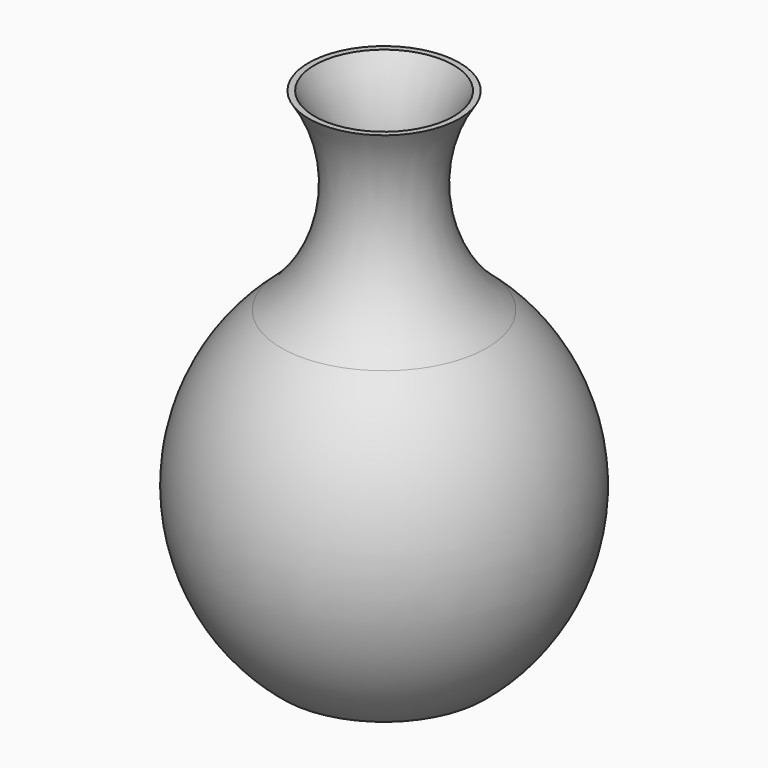
from build123d import *

# Parameters (mm, degrees)
F2_T = -2.54


with BuildPart() as f1:
    # F0 (on Front) → F1 (revolve)
    with BuildSketch(Plane.XZ):
        with BuildLine():
            Line((0, 254), (0, 0))
            Line((0, 0), (50.8, 0))
            ThreePointArc((50.8, 0), (88.242603, 78.030083), (51.960435, 156.606457))
            ThreePointArc((51.960435, 156.606457), (26.388624, 202.650274), (38.1, 254))
            Line((38.1, 254), (0, 254))
        make_face()
    revolve(axis=Axis((0, 0, 127), (0, 0, 1)))

    # F2
    f2_openings = [f1.faces().sort_by_distance(p)[0] for p in [
        (0, 0, 254),
    ]]
    offset(amount=F2_T, openings=f2_openings)


solid = f1.part
